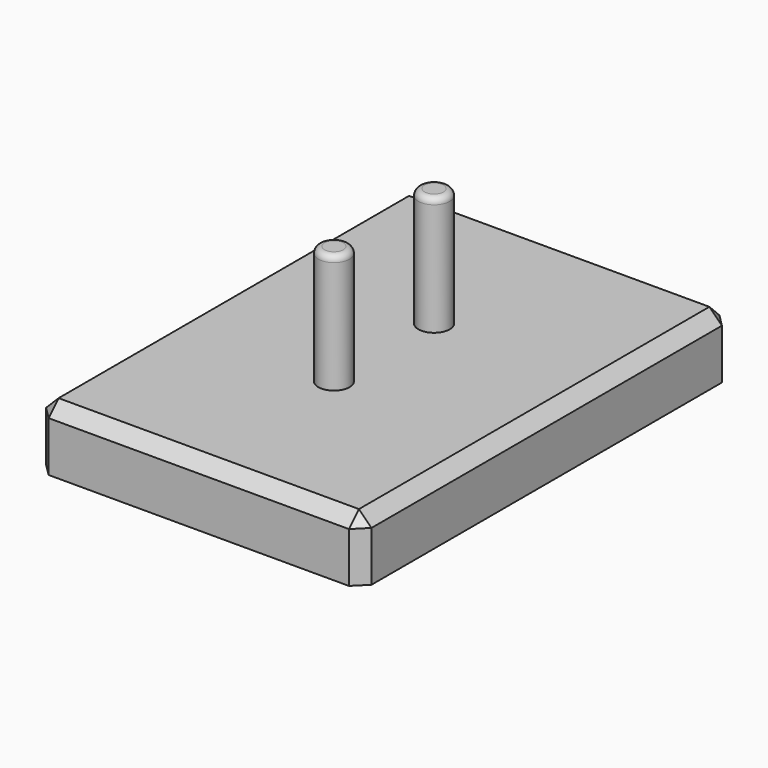
from build123d import *

# Parameters (mm, degrees)
F0_W     = 52
F0_H     = 74
F1_DEPTH = 10
F2_R     = 2.5
F3_DEPTH = 19
F4_R     = 1
F5_SIZE  = 2


with BuildPart() as f1:
    # F0 (on Top) → F1 (new body)
    with BuildSketch(Plane.XY):
        Rectangle(F0_W, F0_H)
    extrude(amount=F1_DEPTH)

    # F2 (on face) → F3 (join)
    with BuildSketch(Plane.XY.offset(10)):
        with Locations((0, 10)):
            Circle(F2_R)
        with Locations((0, -10)):
            Circle(F2_R)
    extrude(amount=F3_DEPTH)

    # F4
    f4_edges = [f1.edges().sort_by_distance(p)[0] for p in [
        (-2.5, 10, 29),
        (-2.5, -10, 29),
    ]]
    fillet(f4_edges, radius=F4_R)

    # F5
    f5_edges = [f1.edges().sort_by_distance(p)[0] for p in [
        (0, 37, 10),
        (26, 0, 10),
        (-26, 0, 10),
        (0, -37, 10),
        (-26, -37, 5),
        (26, -37, 5),
        (-26, 37, 5),
        (26, 37, 5),
    ]]
    chamfer(f5_edges, length=F5_SIZE)


solid = f1.part
